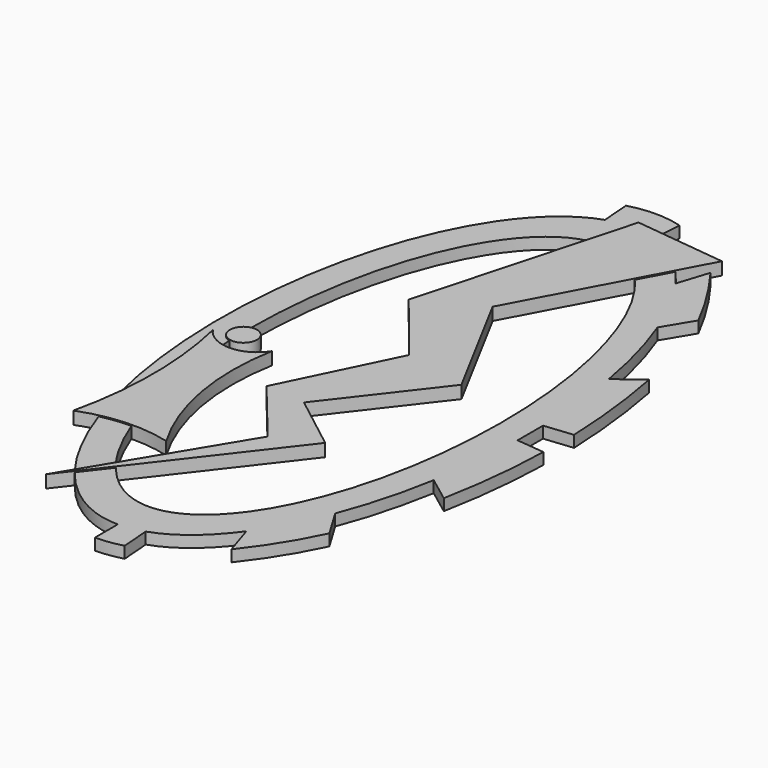
from build123d import *

# Parameters (mm, degrees)
F1_DEPTH = 2
F3_DEPTH = 2.2
F5_DEPTH = 2.2
F6_R     = 2.3616524039
F7_DEPTH = 2.2


with BuildPart() as f1:
    # F0 (on Top) → F1 (new body)
    with BuildSketch(Plane.XY):
        with BuildLine():
            add(Edge.make_bspline(
                [(4.2820115549, 55.2912662544), (2.1546402979, 56), (0, 56)],
                knots=[6.1239198322, 6.1239198322, 6.1239198322, 6.2831853072, 6.2831853072, 6.2831853072], degree=2, weights=[1, 0.9968309887, 1]))
            add(Edge.make_bspline(
                [(0, 56), (-2.1546402979, 56), (-4.2820115549, 55.2912662544)],
                knots=[0, 0, 0, 0.159265475, 0.159265475, 0.159265475], degree=2, weights=[1, 0.9968309887, 1]))
            add(Edge.make_bspline(
                [(-4.2820115549, 55.2912662544), (-28.8976783734, 47.0905567232), (-26.9144366962, -4.4547216384), (-24.931195019, -56), (0, -56)],
                knots=[0.159265475, 0.159265475, 0.159265475, 1.6504290643, 1.6504290643, 3.1415926536, 3.1415926536, 3.1415926536], degree=2, weights=[1, 0.7346933376, 1, 0.7346933376, 1]))
            add(Edge.make_bspline(
                [(0, -56), (2.1546402979, -56), (4.2820115549, -55.2912662544)],
                knots=[3.1415926536, 3.1415926536, 3.1415926536, 3.3008581286, 3.3008581286, 3.3008581286], degree=2, weights=[1, 0.9968309887, 1]))
            add(Edge.make_bspline(
                [(4.2820115549, -55.2912662544), (10.0452188041, -53.3712537288), (14.9113782006, -46.6851361055)],
                knots=[3.3008581286, 3.3008581286, 3.3008581286, 3.7266812771, 3.7266812771, 3.7266812771], degree=2, weights=[1, 0.9774198236, 1]))
            add(Edge.make_bspline(
                [(14.9113782006, -46.6851361055), (18.4223704023, -41.8610222774), (21.0582047409, -35.0482934124)],
                knots=[3.7266812771, 3.7266812771, 3.7266812771, 4.0361522247, 4.0361522247, 4.0361522247], degree=2, weights=[1, 0.9880523338, 1]))
            add(Edge.make_bspline(
                [(21.0582047409, -35.0482934124), (23.8666639687, -27.7893883413), (25.3920853965, -19.0365654052)],
                knots=[4.0361522247, 4.0361522247, 4.0361522247, 4.3655372994, 4.3655372994, 4.3655372994], degree=2, weights=[1, 0.9864688102, 1]))
            add(Edge.make_bspline(
                [(25.3920853965, -19.0365654052), (26.7670823669, -11.1468735466), (26.9670008476, -2.767832451)],
                knots=[4.3655372994, 4.3655372994, 4.3655372994, 4.6629432552, 4.6629432552, 4.6629432552], degree=2, weights=[1, 0.9889640708, 1]))
            add(Edge.make_bspline(
                [(26.9670008476, -2.767832451), (27.033039533, 0), (26.9670008476, 2.767832451)],
                knots=[4.6629432552, 4.6629432552, 4.6629432552, 4.7618347055, 4.7618347055, 4.7618347055], degree=2, weights=[1, 0.9987778092, 1]))
            add(Edge.make_bspline(
                [(26.9670008476, 2.767832451), (26.7670823669, 11.1468735466), (25.3920853965, 19.0365654052)],
                knots=[4.7618347055, 4.7618347055, 4.7618347055, 5.0592406613, 5.0592406613, 5.0592406613], degree=2, weights=[1, 0.9889640708, 1]))
            add(Edge.make_bspline(
                [(25.3920853965, 19.0365654052), (23.8666639687, 27.7893883413), (21.0582047409, 35.0482934124)],
                knots=[5.0592406613, 5.0592406613, 5.0592406613, 5.3886257361, 5.3886257361, 5.3886257361], degree=2, weights=[1, 0.9864688102, 1]))
            add(Edge.make_bspline(
                [(21.0582047409, 35.0482934124), (18.4223704023, 41.8610222774), (14.9113782006, 46.6851361055)],
                knots=[5.3886257361, 5.3886257361, 5.3886257361, 5.6980966836, 5.6980966836, 5.6980966836], degree=2, weights=[1, 0.9880523338, 1]))
            add(Edge.make_bspline(
                [(14.9113782006, 46.6851361055), (10.0452188041, 53.3712537288), (4.2820115549, 55.2912662544)],
                knots=[5.6980966836, 5.6980966836, 5.6980966836, 6.1239198322, 6.1239198322, 6.1239198322], degree=2, weights=[1, 0.9774198236, 1]))
        make_face()
        with BuildLine():
            add(Edge.make_bspline(
                [(0, 49.3173897266), (-38.1051177665, 49.3173897266), (-19.0525588833, -24.6586948633), (0, -98.6347794533), (19.0525588833, -24.6586948633), (38.1051177665, 49.3173897266), (0, 49.3173897266)],
                knots=[0, 0, 0, 2.0943951024, 2.0943951024, 4.1887902048, 4.1887902048, 6.2831853072, 6.2831853072, 6.2831853072], degree=2, weights=[1, 0.5, 1, 0.5, 1, 0.5, 1]))
        make_face(mode=Mode.SUBTRACT)
        with BuildLine():
            add(Edge.make_bspline(
                [(0, -56), (2.1546402979, -56), (4.2820115549, -55.2912662544)],
                knots=[3.1415926536, 3.1415926536, 3.1415926536, 3.3008581286, 3.3008581286, 3.3008581286], degree=2, weights=[1, 0.9968309887, 1]))
            Line((0, -56), (0, -61))
            ThreePointArc((0, -61), (2.3583873908, -60.8276903053), (4.6734693903, -60.345946544))
            Line((4.6734693903, -60.345946544), (4.2820115549, -55.2912662544))
        make_face()
        with BuildLine():
            add(Edge.make_bspline(
                [(14.9113782006, -46.6851361055), (18.4223704023, -41.8610222774), (21.0582047409, -35.0482934124)],
                knots=[3.7266812771, 3.7266812771, 3.7266812771, 4.0361522247, 4.0361522247, 4.0361522247], degree=2, weights=[1, 0.9880523338, 1]))
            Line((14.9113782006, -46.6851361055), (16.6416236785, -52.1022574839))
            ThreePointArc((16.6416236785, -52.1022574839), (20.7207231207, -46.3271815431), (24.1050969797, -40.1193986891))
            Line((24.1050969797, -40.1193986891), (21.0582047409, -35.0482934124))
        make_face()
        with BuildLine():
            add(Edge.make_bspline(
                [(25.3920853965, -19.0365654052), (26.7670823669, -11.1468735466), (26.9670008476, -2.767832451)],
                knots=[4.3655372994, 4.3655372994, 4.3655372994, 4.6629432552, 4.6629432552, 4.6629432552], degree=2, weights=[1, 0.9889640708, 1]))
            Line((25.3920853965, -19.0365654052), (29.7796819968, -22.3259671361))
            ThreePointArc((29.7796819968, -22.3259671361), (31.2186902192, -12.8415061265), (31.8578340598, -3.2698165965))
            Line((31.8578340598, -3.2698165965), (26.9670008476, -2.767832451))
        make_face()
        with BuildLine():
            Line((29.7796819968, 22.3259671361), (25.3920853965, 19.0365654052))
            add(Edge.make_bspline(
                [(26.9670008476, 2.767832451), (26.7670823669, 11.1468735466), (25.3920853965, 19.0365654052)],
                knots=[4.7618347055, 4.7618347055, 4.7618347055, 5.0592406613, 5.0592406613, 5.0592406613], degree=2, weights=[1, 0.9889640708, 1]))
            Line((26.9670008476, 2.767832451), (31.9537159303, 3.2796576965))
            ThreePointArc((31.9537159303, 3.2796576965), (31.2274638186, 12.843991787), (29.7796819968, 22.3259671361))
        make_face()
        with BuildLine():
            Line((16.6416236785, 52.1022574839), (14.9113782006, 46.6851361055))
            add(Edge.make_bspline(
                [(21.0582047409, 35.0482934124), (18.4223704023, 41.8610222774), (14.9113782006, 46.6851361055)],
                knots=[5.3886257361, 5.3886257361, 5.3886257361, 5.6980966836, 5.6980966836, 5.6980966836], degree=2, weights=[1, 0.9880523338, 1]))
            Line((21.0582047409, 35.0482934124), (24.1050969797, 40.1193986891))
            ThreePointArc((24.1050969797, 40.1193986891), (20.6415785097, 46.2778866544), (16.6416236785, 52.1022574839))
        make_face()
        with BuildLine():
            add(Edge.make_bspline(
                [(0, 56), (-2.1546402979, 56), (-4.2820115549, 55.2912662544)],
                knots=[0, 0, 0, 0.159265475, 0.159265475, 0.159265475], degree=2, weights=[1, 0.9968309887, 1]))
            add(Edge.make_bspline(
                [(4.2820115549, 55.2912662544), (2.1546402979, 56), (0, 56)],
                knots=[6.1239198322, 6.1239198322, 6.1239198322, 6.2831853072, 6.2831853072, 6.2831853072], degree=2, weights=[1, 0.9968309887, 1]))
            Line((4.2820115549, 55.2912662544), (4.6734693903, 60.345946544))
            ThreePointArc((4.6734693903, 60.345946544), (0, 61), (-4.6734693903, 60.345946544))
            Line((-4.6734693903, 60.345946544), (-4.2820115549, 55.2912662544))
        make_face()
    extrude(amount=F1_DEPTH)

    # F2 (on Top) → F3 (join)
    with BuildSketch(Plane.XY):
        Polygon((15.9741807729, 55.4183572531), (0, 57.2495348752), (-10.208260268, 20.0303625315), (0, 7.2995228693), (-9.3816425651, -11.934582144), (0, -23.4015248716), (-16.5793877095, -50.8787333965), (7.2708860971, -19.9790354818), (-2.4143287039, -12.5033952501), (11.0392279875, 4.9266284475), (0, 25.5239494145), align=None)
    extrude(amount=F3_DEPTH)

    # F4 (on Top) → F5 (join)
    with BuildSketch(Plane.XY):
        with BuildLine():
            ThreePointArc((-15.2487736195, -3.4292829223), (-20.2764970946, -6.2630149339), (-25.3951884806, -3.5971119069))
            ThreePointArc((-25.3951884806, -3.5971119069), (-23.6715361959, -18.7681510579), (-25.3951884806, -33.9391902089))
            ThreePointArc((-25.3951884806, -33.9391902089), (-17.7333609068, -32.264536184), (-9.930992499, -33.058963716))
            ThreePointArc((-9.930992499, -33.058963716), (-15.2655383761, -18.7243360298), (-15.2487736195, -3.4292829223))
        make_face()
    extrude(amount=F5_DEPTH)

    # F6 (on Top) → F7 (join)
    with BuildSketch(Plane.XY):
        with Locations((-21.2778560817, -2.0857616328)):
            Circle(F6_R)
    extrude(amount=F7_DEPTH)


solid = f1.part
